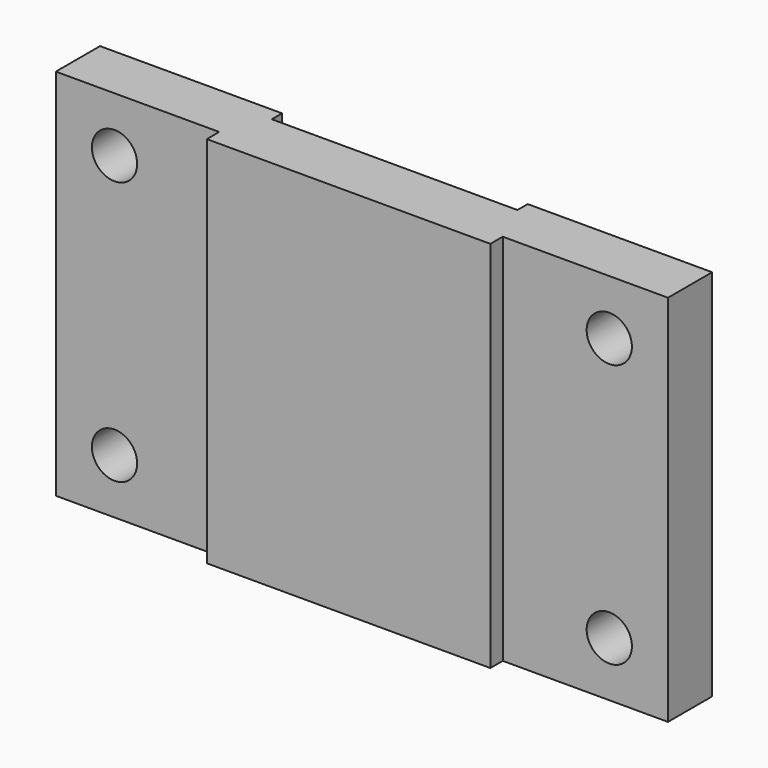
from build123d import *

# Parameters (mm, degrees)
F0_W     = 39.66
F0_H     = 89.64
F0_R     = 5.43
F0_W_2   = 39.22
F1_DEPTH = 13.26
F0_W_3   = 68.06
F2_DEPTH = 16.98
F5_W     = 58.96
F5_H     = 3.08
F6_DEPTH = 89.641


with BuildPart() as f1:
    # F0 (on Front) → F1 (new body)
    with BuildSketch(Plane.XZ):
        with Locations((53.64, 0)):
            Rectangle(F0_W, F0_H)
        with Locations((59.38, -31.65)):
            Circle(F0_R, mode=Mode.SUBTRACT)
        with Locations((59.38, 31.65)):
            Circle(F0_R, mode=Mode.SUBTRACT)
        with Locations((-53.86, 0)):
            Rectangle(F0_W_2, F0_H)
        with Locations((-59.38, -31.65)):
            Circle(F0_R, mode=Mode.SUBTRACT)
        with Locations((-59.38, 31.65)):
            Circle(F0_R, mode=Mode.SUBTRACT)
    extrude(amount=F1_DEPTH)


with BuildPart() as f2:
    # F0 (on Front) → F2 (new body)
    with BuildSketch(Plane.XZ):
        with Locations((-0.22, 0)):
            Rectangle(F0_W_3, F0_H)
    extrude(amount=F2_DEPTH)

    # F3: union F1
    add(f1.part)

    # F4: union 

    # F5 (on face) → F6 (cut, through all)
    with BuildSketch(Plane(origin=(0, 0, -44.82), x_dir=(1, 0, 0), z_dir=(0, 0, -1))):
        Polygon((73.47, -21.704547), (73.47, 0), (29.19, 0), (-29.77, 0), (-73.47, 0), (-73.47, -21.704547), align=None)
        with Locations((-0.29, 1.54)):
            Rectangle(F5_W, F5_H)
    extrude(amount=-F6_DEPTH, mode=Mode.SUBTRACT)


solid = f2.part
